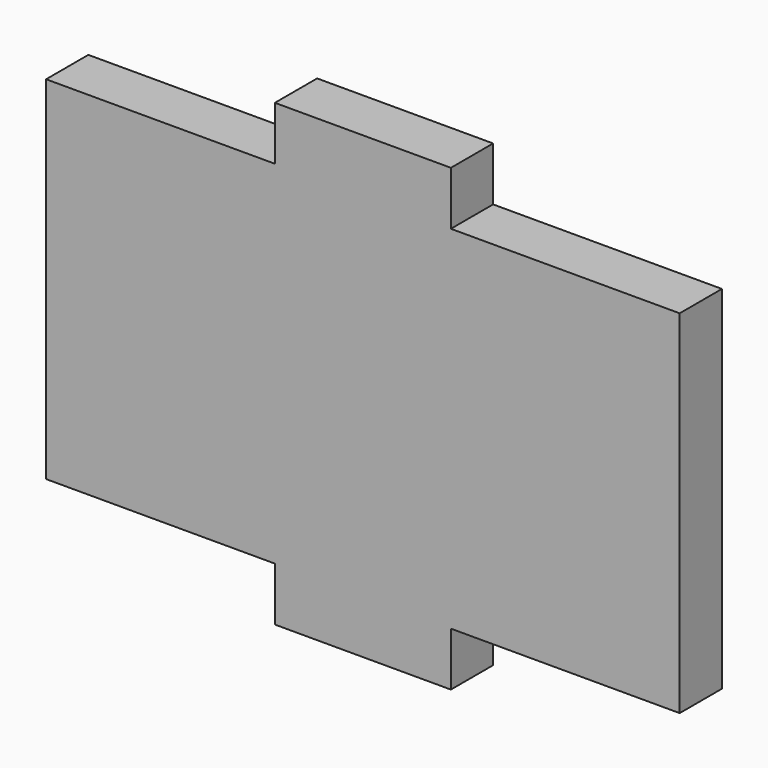
from build123d import *

# Parameters (mm, degrees)
F0_W     = 10
F0_H     = 3.05
F1_DEPTH = 3


with BuildPart() as f1:
    # F0 (on Front) → F1 (new body)
    with BuildSketch(Plane.XZ):
        with Locations((0, 11.525)):
            Rectangle(F0_W, F0_H)
        Polygon((5, -10), (18, -10), (18, 10), (5, 10), (-5, 10), (-18, 10), (-18, -10), (-5, -10), align=None)
        with Locations((0, -11.525)):
            Rectangle(F0_W, F0_H)
    extrude(amount=F1_DEPTH)


solid = f1.part
